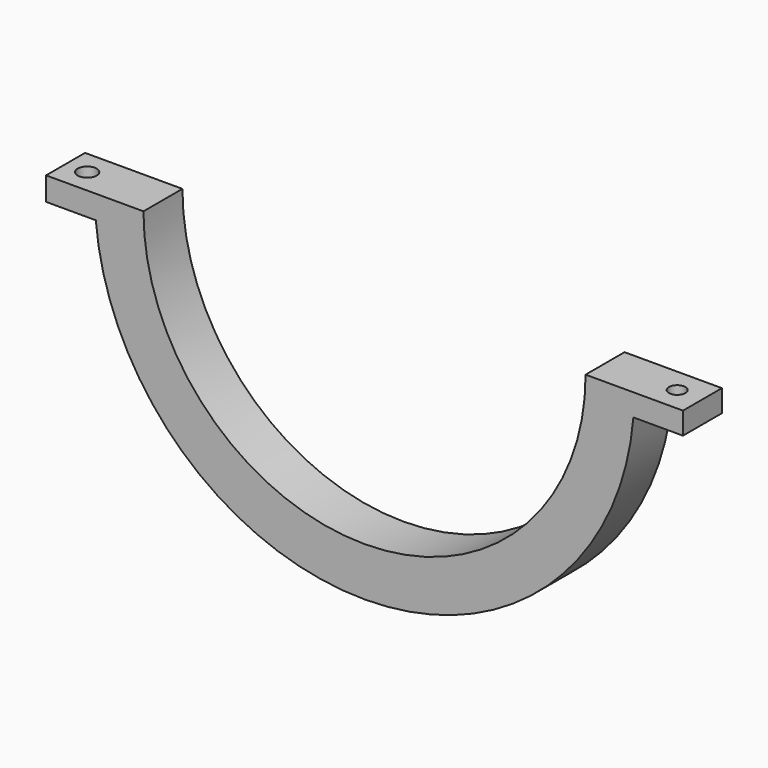
from build123d import *

# Parameters (mm, degrees)
F1_DEPTH = 12.5
F2_R     = 4.225259
F3_DEPTH = 11.342264
F4_R     = 4.884984
F5_DEPTH = 25


with BuildPart() as f1:
    # F0 (on Front) → F1 (new body, symmetric)
    with BuildSketch(Plane.XZ):
        with BuildLine():
            ThreePointArc((113.5, 0), (0, -113.5), (-113.5, 0))
            Line((-113.5, 0), (-138.5, 0))
            Line((-138.5, 0), (-163.5, 0))
            Line((-163.5, 0), (-163.5, -12))
            Line((-163.5, -12), (-137.979165, -12))
            ThreePointArc((-137.979165, -12), (0.330544, -138.499606), (138.034871, -11.341264))
            Line((138.034871, -11.341264), (163.5, -11.341264))
            Line((163.5, -11.341264), (163.5, 0))
            Line((163.5, 0), (138.5, 0))
            Line((138.5, 0), (113.5, 0))
        make_face()
    extrude(amount=F1_DEPTH, both=True)

    # F2 (on face) → F3 (cut, through all)
    with BuildSketch(Plane(origin=(0, 0, -11.341264), x_dir=(1, 0, 0), z_dir=(0, 0, -1))):
        with Locations((150.517523, 0)):
            Circle(F2_R)
    extrude(amount=-F3_DEPTH, mode=Mode.SUBTRACT)

    # F4 (on face) → F5 (cut)
    with BuildSketch(Plane(origin=(0, 0, -12), x_dir=(1, 0, 0), z_dir=(0, 0, -1))):
        with Locations((-152.41228, 0)):
            Circle(F4_R)
    extrude(amount=-F5_DEPTH, mode=Mode.SUBTRACT)


solid = f1.part
